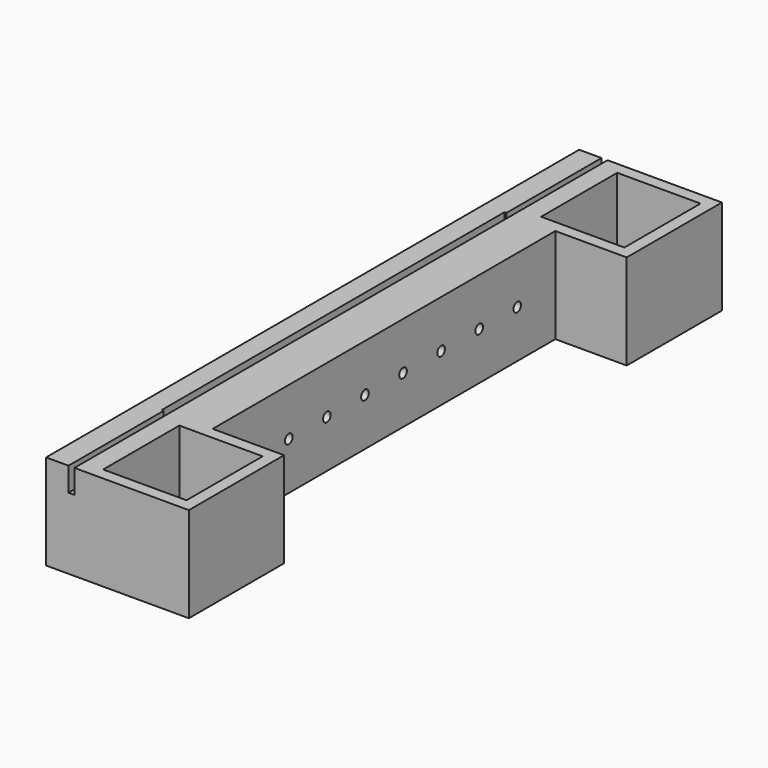
from build123d import *

# Parameters (mm, degrees)
F0_W      = 368.3
F0_H      = 50.8
F1_DEPTH  = 38.1
F2_W      = 76.2
F2_H      = 50.8
F3_DEPTH  = 38.1
F4_W      = 3.175
F4_H      = 63.5
F5_DEPTH  = 12.7
F6_W      = 44.45
F6_H      = 50.8
F7_DEPTH  = 38.1
F8_R      = 2.54
F9_DEPTH  = 12.7
F10_W     = 76.2
F10_H     = 6.35
F10_W_2   = 38.1
F11_DEPTH = 76.2


with BuildPart() as f1:
    # F0 (on Right) → F1 (new body)
    with BuildSketch(Plane.YZ):
        with Locations((184.15, 25.4)):
            Rectangle(F0_W, F0_H)
    extrude(amount=F1_DEPTH)

    # F2 (on face) → F3 (join)
    with BuildSketch(Plane.YZ.offset(38.1)):
        with Locations((38.1, 25.4)):
            Rectangle(F2_W, F2_H)
        with Locations((330.2, 25.4)):
            Rectangle(F2_W, F2_H)
    extrude(amount=F3_DEPTH)

    # F4 (on face) → F5 (cut)
    with BuildSketch(Plane.XY.offset(50.8)):
        with Locations((13.5509, 38.1)):
            Rectangle(F4_W, F4_H)
        with Locations((13.5509, 330.2)):
            Rectangle(F4_W, F4_H)
        Polygon((10.905067, 69.85), (11.9634, 69.85), (15.1384, 69.85), (15.1384, 298.45), (11.9634, 298.45), (10.905067, 298.45), align=None)
    extrude(amount=-F5_DEPTH, mode=Mode.SUBTRACT)

    # F6 (on face) → F7 (cut)
    with BuildSketch(Plane.XY.offset(50.8)):
        with Locations((47.625, 38.1)):
            Rectangle(F6_W, F6_H)
        with Locations((47.625, 330.2)):
            Rectangle(F6_W, F6_H)
    extrude(amount=-F7_DEPTH, mode=Mode.SUBTRACT)

    # F8 (on face) → F9 (cut)
    with BuildSketch(Plane.YZ.offset(38.1)):
        with Locations((120.65, 25.4)):
            Circle(F8_R)
        with Locations((146.05, 25.4)):
            Circle(F8_R)
        with Locations((171.45, 25.4)):
            Circle(F8_R)
        with Locations((196.85, 25.4)):
            Circle(F8_R)
        with Locations((222.25, 25.4)):
            Circle(F8_R)
        with Locations((247.65, 25.4)):
            Circle(F8_R)
        with Locations((95.25, 25.4)):
            Circle(F8_R)
        with Locations((273.05, 25.4)):
            Circle(F8_R)
    extrude(amount=-F9_DEPTH, mode=Mode.SUBTRACT)

    # F10 (on face) → F11 (cut)
    with BuildSketch(Plane.XY.offset(50.8)):
        with Locations((38.1, 3.175)):
            Rectangle(F10_W, F10_H)
        with Locations((57.15, 73.025)):
            Rectangle(F10_W_2, F10_H)
        with Locations((38.1, 365.125)):
            Rectangle(F10_W, F10_H)
        with Locations((57.15, 295.275)):
            Rectangle(F10_W_2, F10_H)
    extrude(amount=-F11_DEPTH, mode=Mode.SUBTRACT)


solid = f1.part
